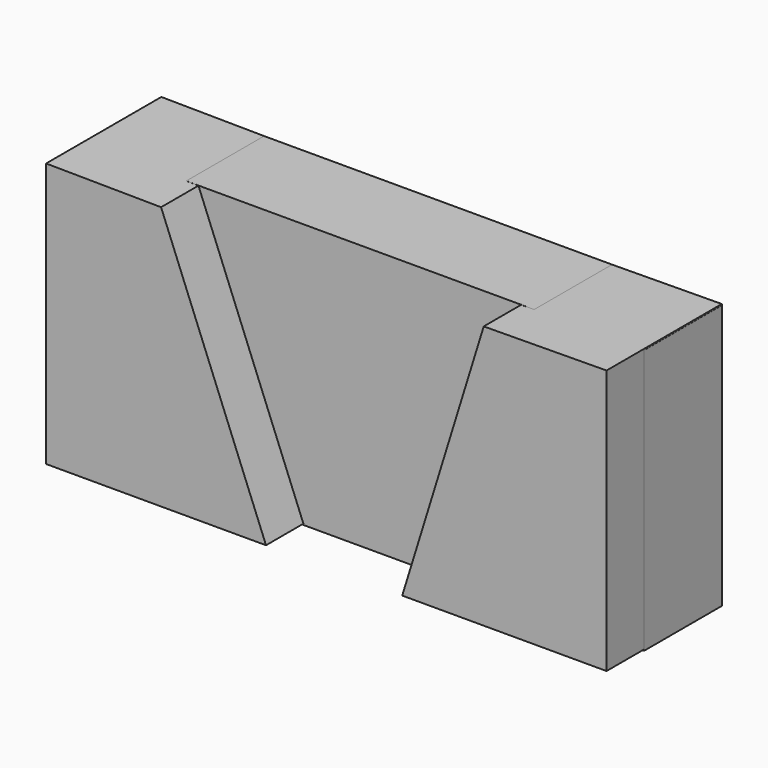
from build123d import *

# Parameters (mm, degrees)
F0_W     = 146.320656
F0_H     = 69.079675
F2_DEPTH = 25.4
F3_DEPTH = 37.592


with BuildPart() as f2:
    # F0 (on Front) → F2 (new body)
    with BuildSketch(Plane.XZ):
        with Locations((0, -3.206231)):
            Rectangle(F0_W, F0_H)
    extrude(amount=F2_DEPTH)

    # F1 (on Front) → F3 (join)
    with BuildSketch(Plane.XZ):
        Polygon((-43.118302, 31.302609), (-73.125824, 31.593941), (-73.125824, -37.452485), (-15.732799, -37.452485), align=None)
        Polygon((73.124416, -37.452485), (73.124416, 31.593941), (41.077554, 31.302609), (19.810088, -37.452485), align=None)
    extrude(amount=F3_DEPTH)


solid = f2.part
